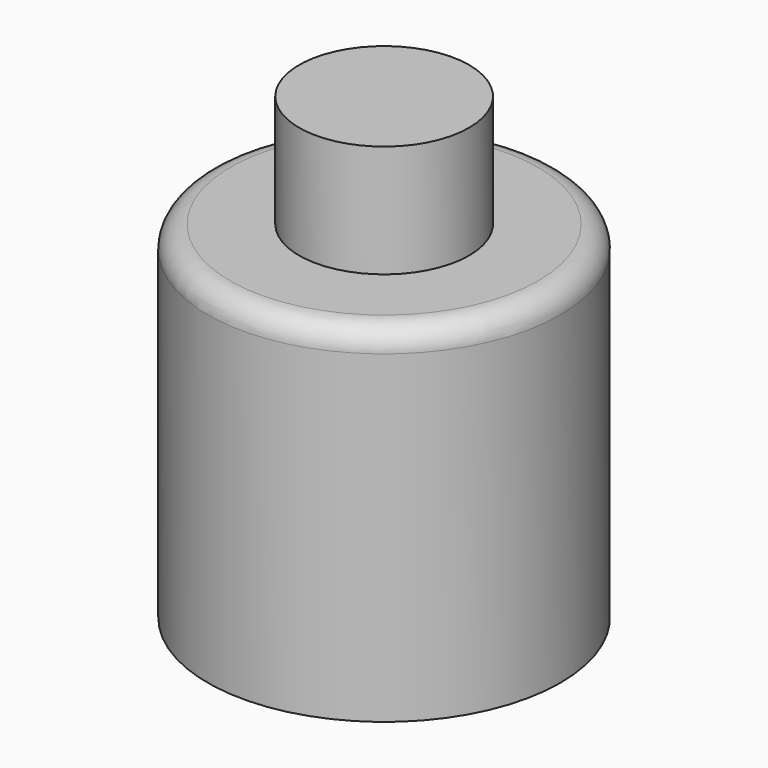
from build123d import *

# Parameters (mm, degrees)
F0_R     = 39.8272
F1_DEPTH = 78.232
F2_R     = 5.08
F3_R     = 19.201024
F4_DEPTH = 25.4


with BuildPart() as f1:
    # F0 (on Top) → F1 (new body)
    with BuildSketch(Plane.XY):
        Circle(F0_R)
    extrude(amount=F1_DEPTH)

    # F2
    f2_edges = [f1.edges().sort_by_distance(p)[0] for p in [
        (-39.8272, 0, 78.232),
    ]]
    fillet(f2_edges, radius=F2_R)

    # F3 (on face) → F4 (join)
    with BuildSketch(Plane.XY.offset(78.232)):
        Circle(F3_R)
    extrude(amount=F4_DEPTH)


solid = f1.part
